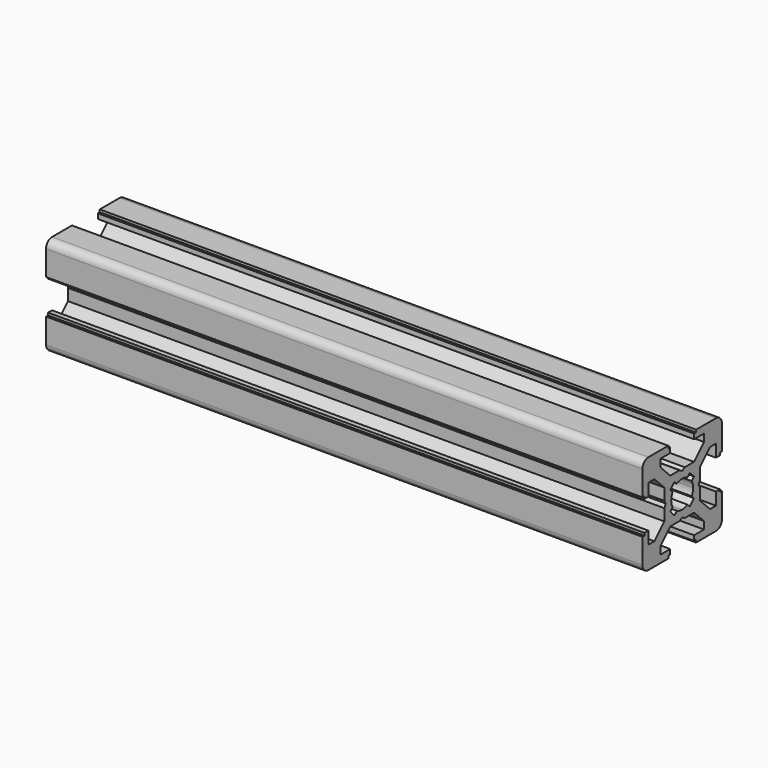
from build123d import *

# Parameters (mm, degrees)
PAD_DEPTH = 120


with BuildPart() as part:
    # Sketch → Pad (new body)
    with BuildSketch(Plane.YZ):
        with BuildLine():
            Line((0, 4.1), (0.65, 4.5))
            Line((0.65, 4.5), (3, 4.5))
            Line((3, 4.5), (5.5, 7))
            Line((5.5, 7), (5.5, 8.5))
            Line((5.5, 8.5), (3, 8.5))
            Line((3, 8.5), (3, 9.5))
            Line((3, 9.5), (3.5, 9.5))
            Line((3.5, 9.5), (3.5, 10))
            Line((3.5, 10), (8.5, 10))
            ThreePointArc((10, 8.5), (9.56066, 9.56066), (8.5, 10))
            Line((10, 8.5), (10, 3.5))
            Line((10, 3.5), (9.5, 3.5))
            Line((9.5, 3.5), (9.5, 3))
            Line((9.5, 3), (8.5, 3))
            Line((8.5, 3), (8.5, 5.5))
            Line((8.5, 5.5), (7, 5.5))
            Line((7, 5.5), (4.5, 3))
            Line((4.5, 3), (4.5, 0.65))
            Line((4.5, 0.65), (4.1, 0))
            Line((4.5, -0.65), (4.1, 0))
            Line((4.5, -3), (4.5, -0.65))
            Line((7, -5.5), (4.5, -3))
            Line((8.5, -5.5), (7, -5.5))
            Line((8.5, -3), (8.5, -5.5))
            Line((9.5, -3), (8.5, -3))
            Line((9.5, -3.5), (9.5, -3))
            Line((10, -3.5), (9.5, -3.5))
            Line((10, -8.5), (10, -3.5))
            ThreePointArc((8.5, -10), (9.56066, -9.56066), (10, -8.5))
            Line((3.5, -10), (8.5, -10))
            Line((3.5, -9.5), (3.5, -10))
            Line((3, -9.5), (3.5, -9.5))
            Line((3, -8.5), (3, -9.5))
            Line((5.5, -8.5), (3, -8.5))
            Line((5.5, -7), (5.5, -8.5))
            Line((3, -4.5), (5.5, -7))
            Line((0.65, -4.5), (3, -4.5))
            Line((0, -4.1), (0.65, -4.5))
            Line((0, -4.1), (-0.65, -4.5))
            Line((-0.65, -4.5), (-3, -4.5))
            Line((-3, -4.5), (-5.5, -7))
            Line((-5.5, -7), (-5.5, -8.5))
            Line((-5.5, -8.5), (-3, -8.5))
            Line((-3, -8.5), (-3, -9.5))
            Line((-3, -9.5), (-3.5, -9.5))
            Line((-3.5, -9.5), (-3.5, -10))
            Line((-3.5, -10), (-8.5, -10))
            ThreePointArc((-10, -8.5), (-9.56066, -9.56066), (-8.5, -10))
            Line((-10, -8.5), (-10, -3.5))
            Line((-10, -3.5), (-9.5, -3.5))
            Line((-9.5, -3.5), (-9.5, -3))
            Line((-9.5, -3), (-8.5, -3))
            Line((-8.5, -3), (-8.5, -5.5))
            Line((-8.5, -5.5), (-7, -5.5))
            Line((-7, -5.5), (-4.5, -3))
            Line((-4.5, -3), (-4.5, -0.65))
            Line((-4.5, -0.65), (-4.1, 0))
            Line((-4.5, 0.65), (-4.1, 0))
            Line((-4.5, 3), (-4.5, 0.65))
            Line((-7, 5.5), (-4.5, 3))
            Line((-8.5, 5.5), (-7, 5.5))
            Line((-8.5, 3), (-8.5, 5.5))
            Line((-9.5, 3), (-8.5, 3))
            Line((-9.5, 3.5), (-9.5, 3))
            Line((-10, 3.5), (-9.5, 3.5))
            Line((-10, 8.5), (-10, 3.5))
            ThreePointArc((-8.5, 10), (-9.56066, 9.56066), (-10, 8.5))
            Line((-3.5, 10), (-8.5, 10))
            Line((-3.5, 9.5), (-3.5, 10))
            Line((-3, 9.5), (-3.5, 9.5))
            Line((-3, 8.5), (-3, 9.5))
            Line((-5.5, 8.5), (-3, 8.5))
            Line((-5.5, 7), (-5.5, 8.5))
            Line((-3, 4.5), (-5.5, 7))
            Line((-0.65, 4.5), (-3, 4.5))
            Line((0, 4.1), (-0.65, 4.5))
        make_face()
        with BuildLine():
            Line((1.340499, 2.401159), (1.923239, 2.983899))
            Line((1.923239, 2.983899), (2.983899, 1.923239))
            Line((2.983899, 1.923239), (2.401159, 1.340499))
            ThreePointArc((2.75, 0), (2.661361, 0.692573), (2.401159, 1.340499))
            ThreePointArc((2.401164, -1.34049), (2.661362, -0.692568), (2.75, 0))
            Line((2.983904, -1.92323), (2.401164, -1.34049))
            Line((1.923247, -2.983894), (2.983904, -1.92323))
            Line((1.340507, -2.401154), (1.923247, -2.983894))
            ThreePointArc((0, -2.75), (0.692577, -2.66136), (1.340507, -2.401154))
            ThreePointArc((-1.340507, -2.401154), (-0.692577, -2.66136), (0, -2.75))
            Line((-1.340507, -2.401154), (-1.923247, -2.983894))
            Line((-1.923247, -2.983894), (-2.983904, -1.92323))
            Line((-2.983904, -1.92323), (-2.401164, -1.34049))
            ThreePointArc((-2.75, 0), (-2.661362, -0.692568), (-2.401164, -1.34049))
            ThreePointArc((-2.401159, 1.340499), (-2.661361, 0.692572), (-2.75, 0))
            Line((-2.983899, 1.923239), (-2.401159, 1.340499))
            Line((-1.923239, 2.983899), (-2.983899, 1.923239))
            Line((-1.340499, 2.401159), (-1.923239, 2.983899))
            ThreePointArc((0, 2.75), (-0.692573, 2.661361), (-1.340499, 2.401159))
            ThreePointArc((1.340499, 2.401159), (0.692573, 2.661361), (0, 2.75))
        make_face(mode=Mode.SUBTRACT)
    extrude(amount=PAD_DEPTH)


solid = part.part
